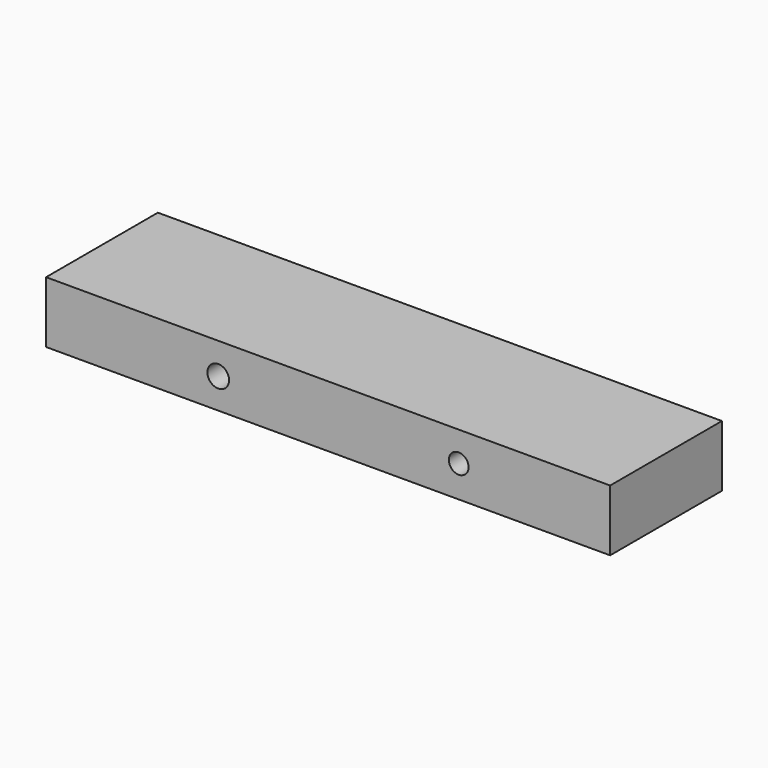
from build123d import *

# Parameters (mm, degrees)
F0_W     = 233.017758
F0_H     = 57.732466
F1_DEPTH = 25.4
F2_R     = 4.479401
F2_R_2   = 4.072179
F3_DEPTH = 57.733467


with BuildPart() as f1:
    # F0 (on Top) → F1 (new body)
    with BuildSketch(Plane.XY):
        Rectangle(F0_W, F0_H)
    extrude(amount=F1_DEPTH)

    # F2 (on face) → F3 (cut, through all)
    with BuildSketch(Plane.XZ.offset(28.866233)):
        with Locations((-45.385242, 12.48381)):
            Circle(F2_R)
        with Locations((53.958915, 13.046741)):
            Circle(F2_R_2)
    extrude(amount=-F3_DEPTH, mode=Mode.SUBTRACT)


solid = f1.part
